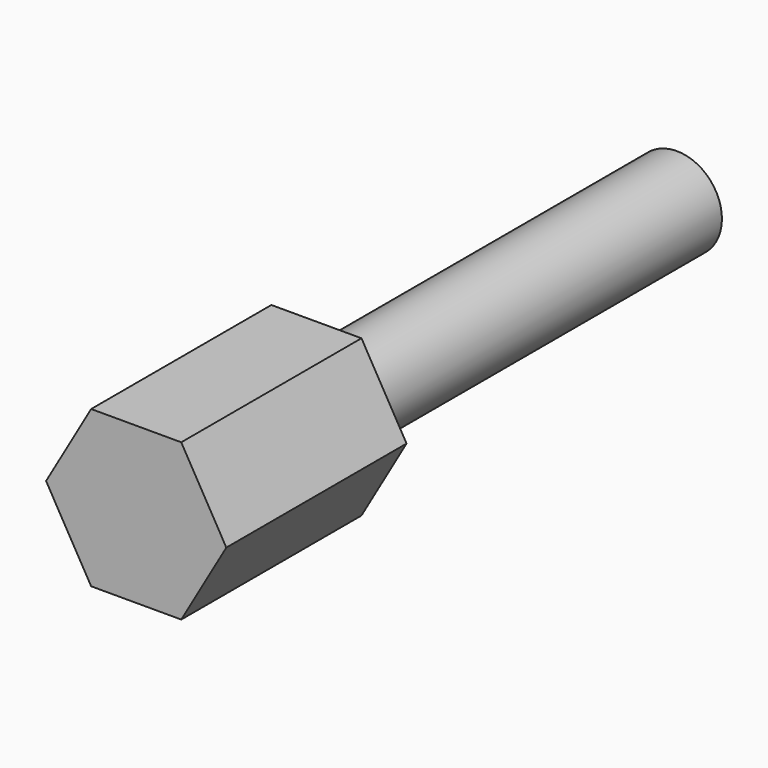
from build123d import *

# Parameters (mm, degrees)
F1_DEPTH = 25
F2_DEPTH = 50


with BuildPart() as f1:
    # F0 (on Front) → F1 (new body)
    with BuildSketch(Plane.XZ):
        Polygon((-5, 0), (-5, 8.66), (-10.00044, 0), (-5, -8.66), align=None)
        with BuildLine():
            Line((5, -8.66), (5, 0))
            ThreePointArc((5, 0), (0, -5), (-5, 0))
            Line((-5, 0), (-5, -8.66))
            Line((-5, -8.66), (5, -8.66))
        make_face()
        with BuildLine():
            ThreePointArc((-5, 0), (0, -5), (5, 0))
            ThreePointArc((5, 0), (0, 5), (-5, 0))
        make_face()
        with BuildLine():
            Line((5, 0), (5, 8.66))
            Line((5, 8.66), (-5, 8.66))
            Line((-5, 8.66), (-5, 0))
            ThreePointArc((-5, 0), (0, 5), (5, 0))
        make_face()
        Polygon((10.00044, 0), (5, 8.66), (5, 0), (5, -8.66), align=None)
    extrude(amount=F1_DEPTH)

    # F0 (on Front) → F2 (join)
    with BuildSketch(Plane.XZ):
        with BuildLine():
            ThreePointArc((-5, 0), (0, -5), (5, 0))
            ThreePointArc((5, 0), (0, 5), (-5, 0))
        make_face()
    extrude(amount=-F2_DEPTH)


solid = f1.part
